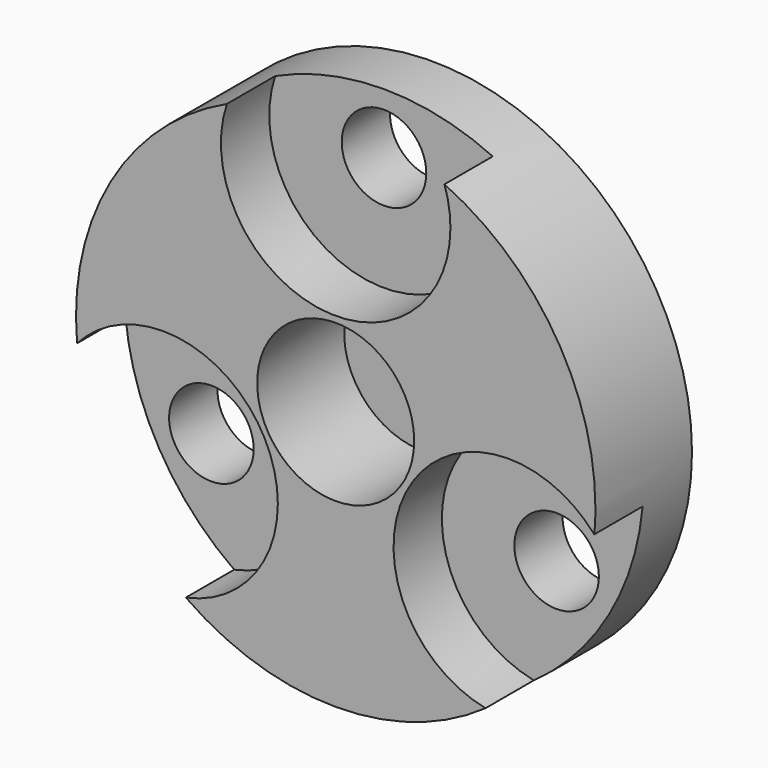
from build123d import *

# Parameters (mm, degrees)
F0_R     = 4.3
F1_DEPTH = 2
F2_R     = 0.7
F3_DEPTH = 1
F4_DEPTH = 2
F5_R     = 1.3
F6_DEPTH = 1.8


with BuildPart() as f1:
    # F0 (on Front) → F1 (new body)
    with BuildSketch(Plane.XZ):
        Circle(F0_R)
    extrude(amount=F1_DEPTH)

    # F2 (on face) → F3 (cut)
    with BuildSketch(Plane.XZ.offset(2)):
        with BuildLine():
            ThreePointArc((-1.8012564485, 3.9045454545), (-0.3062782622, 1.4248483725), (1.9, 3.3))
            ThreePointArc((1.9, 3.3), (1.8751516275, 3.6062782622), (1.8012564485, 3.9045454545))
            ThreePointArc((1.8012564485, 3.9045454545), (0, 4.3), (-1.8012564485, 3.9045454545))
        make_face()
        with Locations((0, 3.3)):
            Circle(F2_R, mode=Mode.SUBTRACT)
        with BuildLine():
            ThreePointArc((-0.9578838325, -1.65), (-2.1855527744, 0.1270680765), (-4.2820637781, -0.3923388841))
            ThreePointArc((-4.2820637781, -0.3923388841), (-3.7239092363, -2.15), (-2.4808073296, -3.5122065704))
            ThreePointArc((-2.4808073296, -3.5122065704), (-1.3870940182, -2.8528205694), (-0.9578838325, -1.65))
        make_face()
        with Locations((-2.8578838325, -1.65)):
            Circle(F2_R, mode=Mode.SUBTRACT)
        with BuildLine():
            ThreePointArc((2.4808073296, -3.5122065704), (3.7239092363, -2.15), (4.2820637781, -0.3923388841))
            ThreePointArc((4.2820637781, -0.3923388841), (1.2124355653, -0.7), (2.4808073296, -3.5122065704))
        make_face()
        with Locations((2.8578838325, -1.65)):
            Circle(F2_R, mode=Mode.SUBTRACT)
    extrude(amount=-F3_DEPTH, mode=Mode.SUBTRACT)

    # F4 (cut): faces of the model
    f4_faces = [f1.faces().sort_by_distance(p)[0] for p in [
        (0, -2, 3.3),
        (-2.8578838325, -2, -1.65),
        (2.8578838325, -2, -1.65),
    ]]
    extrude(f4_faces, amount=-F4_DEPTH, mode=Mode.SUBTRACT)

    # F5 (on face) → F6 (cut)
    with BuildSketch(Plane.XZ.offset(2)):
        Circle(F5_R)
    extrude(amount=-F6_DEPTH, mode=Mode.SUBTRACT)


solid = f1.part
